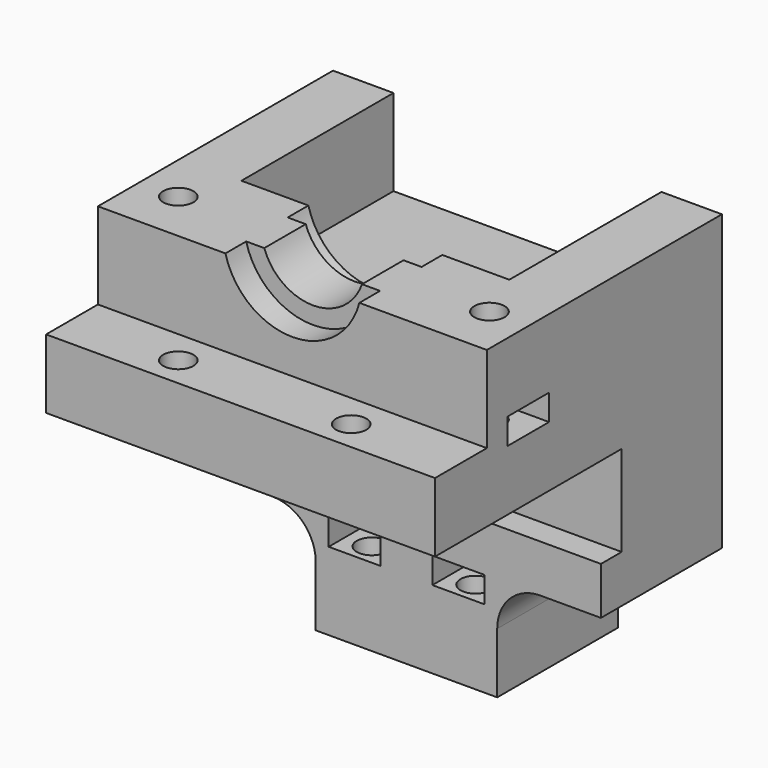
from build123d import *

# Parameters (mm, degrees)
F0_W      = 45
F0_H      = 27
F0_R      = 1.75
F0_H_2    = 14.5
F1_DEPTH  = 8
F2_DEPTH  = 28
F3_W      = 31
F3_H      = 12
F4_DEPTH  = 10
F6_DEPTH  = 19.501
F7_DEPTH  = 3
F8_R      = 8
F9_DEPTH  = 3
F11_DEPTH = 11
F12_DEPTH = 8
F13_R     = 1.75
F14_DEPTH = 16
F15_W     = 12
F15_H     = 12
F16_DEPTH = 41.501
F17_DEPTH = 17.5
F18_R     = 1.75
F19_DEPTH = 17.5
F20_W     = 6
F20_H     = 3
F21_DEPTH = 41.501
F22_R     = 5


with BuildPart() as f1:
    # F0 (on Top) → F1 (new body)
    with BuildSketch(Plane.XY):
        Rectangle(F0_W, F0_H)
        with Locations((-10, -10)):
            Circle(F0_R, mode=Mode.SUBTRACT)
        with Locations((10, -10)):
            Circle(F0_R, mode=Mode.SUBTRACT)
        with Locations((-10, 10)):
            Circle(F0_R, mode=Mode.SUBTRACT)
        with Locations((10, 10)):
            Circle(F0_R, mode=Mode.SUBTRACT)
        with Locations((0, 20.75)):
            Rectangle(F0_W, F0_H_2)
    extrude(amount=F1_DEPTH)

    # F0 (on Top) → F2 (join)
    with BuildSketch(Plane.XY):
        with Locations((0, 20.75)):
            Rectangle(F0_W, F0_H_2)
    extrude(amount=-F2_DEPTH)

    # F3 (on face) → F4 (join)
    with BuildSketch(Plane.XY.offset(8)):
        Polygon((-22.5, 28), (-22.5, -6), (-15.5, -6), (-15.5, 6), (-15.5, 28), align=None)
        Rectangle(F3_W, F3_H)
        Polygon((15.5, 6), (15.5, -6), (22.5, -6), (22.5, 28), (15.5, 28), align=None)
    extrude(amount=F4_DEPTH)

    # F5 (on face) → F6 (cut, through all)
    with BuildSketch(Plane(origin=(0, 6, 0), x_dir=(-1, 0, 0), z_dir=(0, 1, 0))):
        with BuildLine():
            Line((5.6568542495, 18), (-5.6568542495, 18))
            ThreePointArc((-5.6568542495, 18), (0, 14), (5.6568542495, 18))
        make_face()
    extrude(amount=-F6_DEPTH, mode=Mode.SUBTRACT)

    # F5 (on face) → F7 (cut)
    with BuildSketch(Plane(origin=(0, 6, 0), x_dir=(-1, 0, 0), z_dir=(0, 1, 0))):
        with BuildLine():
            Line((-5.6568542495, 18), (-7.7459666924, 18))
            ThreePointArc((-7.7459666924, 18), (0, 12), (7.7459666924, 18))
            Line((7.7459666924, 18), (5.6568542495, 18))
            ThreePointArc((5.6568542495, 18), (0, 14), (-5.6568542495, 18))
        make_face()
    extrude(amount=-F7_DEPTH, mode=Mode.SUBTRACT)

    # F8 (on face) → F9 (cut)
    with BuildSketch(Plane.XZ.offset(6)):
        with Locations((0, 20)):
            Circle(F8_R)
    extrude(amount=-F9_DEPTH, mode=Mode.SUBTRACT)

    # F10 (on face) → F11 (cut)
    with BuildSketch(Plane.XY.offset(18)):
        Polygon((-19.7320508076, -3), (-16.2679491924, -3), (-14.5358983849, 0), (-16.2679491924, 3), (-19.7320508076, 3), (-22.5, 3), (-22.5, -3), align=None)
        Polygon((14.5358983849, 0), (16.2679491924, -3), (19.7320508076, -3), (22.5, -3), (22.5, 3), (19.3412657973, 3), (16.2679491924, 3), align=None)
    extrude(amount=-F11_DEPTH, mode=Mode.SUBTRACT)

    # F10 (on face) → F12 (join)
    with BuildSketch(Plane.XY.offset(18)):
        Polygon((-19.7320508076, -3), (-16.2679491924, -3), (-14.5358983849, 0), (-16.2679491924, 3), (-19.7320508076, 3), (-22.5, 3), (-22.5, -3), align=None)
        Polygon((14.5358983849, 0), (16.2679491924, -3), (19.7320508076, -3), (22.5, -3), (22.5, 3), (19.3412657973, 3), (16.2679491924, 3), align=None)
    extrude(amount=-F12_DEPTH)

    # F13 (on face) → F14 (cut)
    with BuildSketch(Plane.XY.offset(18)):
        with Locations((-18, 0)):
            Circle(F13_R)
        with Locations((18, 0)):
            Circle(F13_R)
    extrude(amount=-F14_DEPTH, mode=Mode.SUBTRACT)

    # F15 (on face) → F16 (cut, through all)
    with BuildSketch(Plane(origin=(0, 28, 0), x_dir=(-1, 0, 0), z_dir=(0, 1, 0))):
        with Locations((16.5, -22)):
            Rectangle(F15_W, F15_H)
        with Locations((-16.5, -22)):
            Rectangle(F15_W, F15_H)
    extrude(amount=-F16_DEPTH, mode=Mode.SUBTRACT)

    # F15 (on face) → F17 (join)
    with BuildSketch(Plane(origin=(0, 28, 0), x_dir=(-1, 0, 0), z_dir=(0, 1, 0))):
        Polygon((-10.5, -16), (-10.5, -28), (10.5, -28), (10.5, -16), (22.5, -16), (22.5, -10.5), (-22.5, -10.5), (-22.5, -16), align=None)
    extrude(amount=-F17_DEPTH)

    # F18 (on face) → F19 (cut)
    with BuildSketch(Plane(origin=(0, 0, -28), x_dir=(1, 0, 0), z_dir=(0, 0, -1))):
        with Locations((-6, -13)):
            Circle(F18_R)
        with Locations((6, -13)):
            Circle(F18_R)
        with Locations((6, -25)):
            Circle(F18_R)
        with Locations((-6, -25)):
            Circle(F18_R)
    extrude(amount=-F19_DEPTH, mode=Mode.SUBTRACT)

    # F20 (on face) → F21 (cut, through all)
    with BuildSketch(Plane(origin=(0, 28, 0), x_dir=(-1, 0, 0), z_dir=(0, 1, 0))):
        with Locations((-6, -17.5)):
            Rectangle(F20_W, F20_H)
        with Locations((6, -17.5)):
            Rectangle(F20_W, F20_H)
    extrude(amount=-F21_DEPTH, mode=Mode.SUBTRACT)

    # F22
    f22_edges = [f1.edges().sort_by_distance(p)[0] for p in [
        (-10.5, 19.25, -16),
        (10.5, 19.25, -16),
    ]]
    fillet(f22_edges, radius=F22_R)


solid = f1.part
